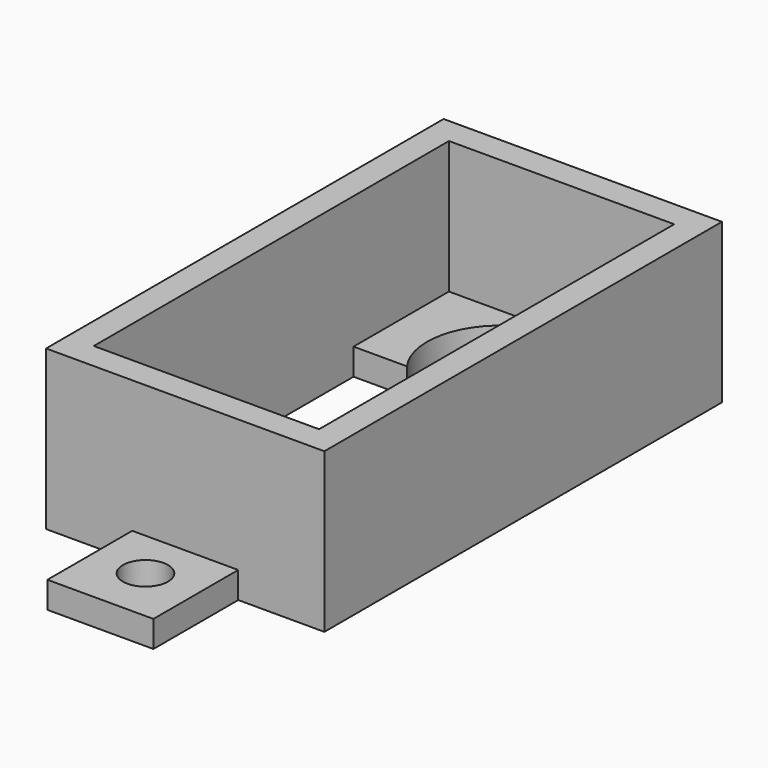
from build123d import *

# Parameters (mm, degrees)
F0_W     = 8
F0_H     = 8
F0_R     = 1.7
F1_DEPTH = 2
F2_DEPTH = 12


with BuildPart() as f1:
    # F0 (on Top) → F1 (new body)
    with BuildSketch(Plane.XY):
        Polygon((-5.160656, 9.751341), (-11.660656, 9.751341), (-11.660656, -27.748659), (-5.160656, -27.748659), (2.839344, -27.748659), (9.339344, -27.748659), (9.339344, 9.751341), (2.839344, 9.751341), align=None)
        Polygon((-9.660656, -1.248659), (-9.660656, 7.751341), (7.339344, 7.751341), (7.339344, -1.248659), (7.339344, -16.748659), (7.339344, -25.748659), (-9.660656, -25.748659), (-9.660656, -16.748659), align=None, mode=Mode.SUBTRACT)
        with BuildLine():
            Line((7.339344, 7.751341), (-9.660656, 7.751341))
            Line((-9.660656, 7.751341), (-9.660656, -1.248659))
            Line((-9.660656, -1.248659), (-5.63391, -1.248659))
            ThreePointArc((-5.63391, -1.248659), (-2.840999, 7.188368), (4.339344, 1.951341))
            ThreePointArc((4.339344, 1.951341), (4.076371, 0.270999), (3.312598, -1.248659))
            Line((3.312598, -1.248659), (7.339344, -1.248659))
            Line((7.339344, -1.248659), (7.339344, 7.751341))
        make_face()
        with BuildLine():
            Line((-5.63391, -16.748659), (-9.660656, -16.748659))
            Line((-9.660656, -16.748659), (-9.660656, -25.748659))
            Line((-9.660656, -25.748659), (7.339344, -25.748659))
            Line((7.339344, -25.748659), (7.339344, -16.748659))
            Line((7.339344, -16.748659), (3.312598, -16.748659))
            ThreePointArc((3.312598, -16.748659), (4.076371, -18.268316), (4.339344, -19.948659))
            ThreePointArc((4.339344, -19.948659), (-2.840999, -25.185685), (-5.63391, -16.748659))
        make_face()
        with Locations((-1.160656, 13.751341)):
            Rectangle(F0_W, F0_H)
        with Locations((-1.160656, 13.501341)):
            Circle(F0_R, mode=Mode.SUBTRACT)
        with Locations((-1.160656, -31.748659)):
            Rectangle(F0_W, F0_H)
        with Locations((-1.160656, -31.498659)):
            Circle(F0_R, mode=Mode.SUBTRACT)
    extrude(amount=F1_DEPTH)

    # F0 (on Top) → F2 (join)
    with BuildSketch(Plane.XY):
        Polygon((-5.160656, 9.751341), (-11.660656, 9.751341), (-11.660656, -27.748659), (-5.160656, -27.748659), (2.839344, -27.748659), (9.339344, -27.748659), (9.339344, 9.751341), (2.839344, 9.751341), align=None)
        Polygon((-9.660656, -1.248659), (-9.660656, 7.751341), (7.339344, 7.751341), (7.339344, -1.248659), (7.339344, -16.748659), (7.339344, -25.748659), (-9.660656, -25.748659), (-9.660656, -16.748659), align=None, mode=Mode.SUBTRACT)
    extrude(amount=F2_DEPTH)


solid = f1.part
